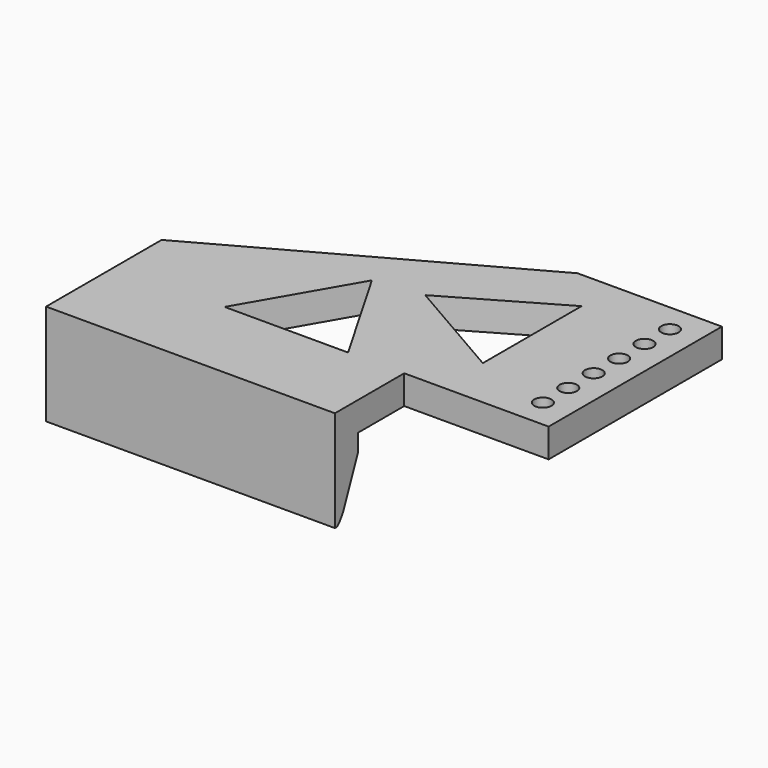
from build123d import *

# Parameters (mm, degrees)
PAD_DEPTH              = 2
SKETCH001_R            = 0.6
HOLE_DEPTH             = 2.001
LINEARPATTERN_COUNT    = 6
LINEARPATTERN_PITCH    = 2.2
POCKET_DEPTH           = 2.001
SKETCH003_W            = 20
SKETCH003_H            = 2
PAD001_DEPTH           = 5
SKETCH004_W            = 1
SKETCH004_H            = 1
REVOLUTION_ANGLE       = -90
LINEARPATTERN001_COUNT = 10
LINEARPATTERN001_PITCH = 1.888889
CHAMFER_SIZE           = 1.8
CHAMFER001_SIZE        = 2
CHAMFER002_SIZE        = 0.3


with BuildPart() as part:
    # Sketch → Pad (new body)
    with BuildSketch(Plane.XY):
        Polygon((0, 0), (20, 0), (20, 6), (30, 6), (30, 21), (20, 21), (0, 10), align=None)
    extrude(amount=PAD_DEPTH)

    # Sketch001 (on Face9 of Pad) → Hole (cut, through all)
    with BuildSketch(Plane.XY.offset(2)):
        with Locations((28, 19)):
            Circle(SKETCH001_R)
    hole = extrude(amount=-HOLE_DEPTH, mode=Mode.SUBTRACT)

    # LinearPattern: Hole ×6
    with Locations(*[(0, -i * LINEARPATTERN_PITCH, 0) for i in range(1, LINEARPATTERN_COUNT)]):
        add(hole, mode=Mode.SUBTRACT)

    # Sketch002 (on Face5 of LinearPattern) → Pocket (cut, through all)
    with BuildSketch(Plane.XY.offset(2)):
        Polygon((11.837454, 13.403028), (7.563314, 6), (16.111595, 6), align=None)
        Polygon((22.577143, 9.579128), (22.577143, 18.127408), (15.174115, 13.853268), align=None)
    extrude(amount=-POCKET_DEPTH, mode=Mode.SUBTRACT)

    # Sketch003 (on Face4 of Pocket) → Pad001 (join)
    with BuildSketch(Plane(origin=(0, 0, 0), x_dir=(1, 0, 0), z_dir=(0, 0, -1))):
        with Locations((10, -1)):
            Rectangle(SKETCH003_W, SKETCH003_H)
    extrude(amount=PAD001_DEPTH)

    # Sketch004 (on Face19 of Pad001) → Revolution (revolve)
    with BuildSketch(Plane(origin=(0, 2, 0), x_dir=(-1, 0, 0), z_dir=(0, 1, 0))):
        with Locations((-18.5, -0.5)):
            Rectangle(SKETCH004_W, SKETCH004_H)
    revolution = revolve(axis=Axis((10, 2, 0), (-1, 0, 0)), revolution_arc=REVOLUTION_ANGLE)

    # LinearPattern001: Revolution ×10
    with Locations(*[(-i * LINEARPATTERN001_PITCH, 0, 0) for i in range(1, LINEARPATTERN001_COUNT)]):
        add(revolution)

    # Chamfer
    chamfer_edges = [part.edges().sort_by_distance(p)[0] for p in [
        (10, 2, -5),
    ]]
    chamfer(chamfer_edges, length=CHAMFER_SIZE)

    # Chamfer001
    chamfer001_edges = [part.edges().sort_by_distance(p)[0] for p in [
        (10, 2, -3.2),
    ]]
    chamfer(chamfer001_edges, length=CHAMFER001_SIZE)

    # Chamfer002
    chamfer002_edges = [part.edges().sort_by_distance(p)[0] for p in [
        (10, 0.585786, -4.614214),
    ]]
    chamfer(chamfer002_edges, length=CHAMFER002_SIZE)


solid = part.part
